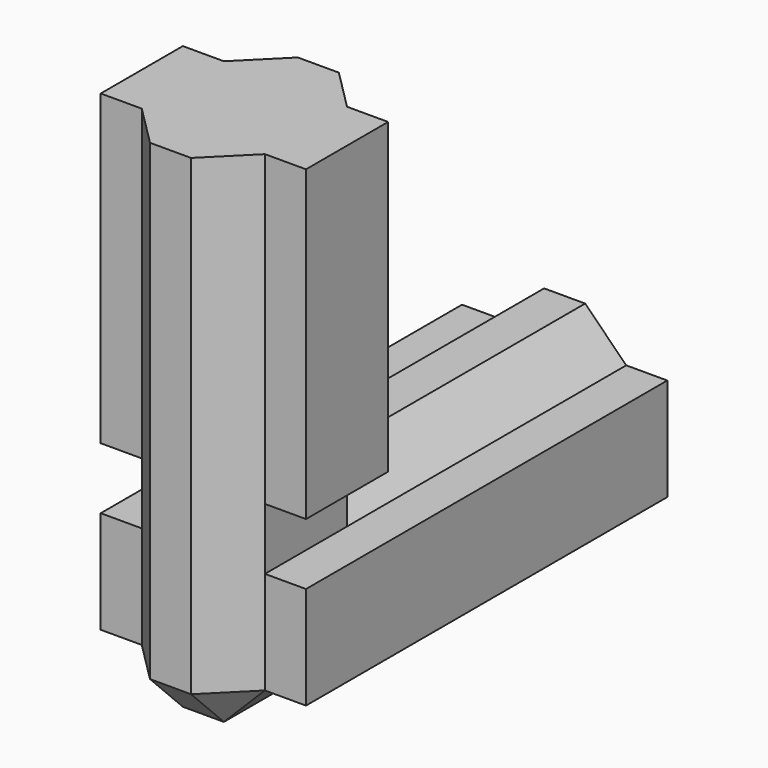
from build123d import *

# Parameters (mm, degrees)
BOX006001005_W     = 6
BOX006001005_H     = 9
BOX006001005_DEPTH = 25
CHAMFER003_SIZE    = 2
BOX006001004_W     = 6
BOX006001004_H     = 22
BOX006001004_DEPTH = 9
CHAMFER002_SIZE    = 2
BOX006001003_W     = 10
BOX006001003_H     = 5
BOX006001003_DEPTH = 15
BOX006001002_W     = 10
BOX006001002_H     = 22
BOX006001002_DEPTH = 5


with BuildPart() as chamfer003:
    # Box006001005 → Box006001005 (new body)
    with BuildSketch(Plane(origin=(2, -2, -2), x_dir=(1, 0, 0), z_dir=(0, 0, 1))):
        with Locations((3, 4.5)):
            Rectangle(BOX006001005_W, BOX006001005_H)
    extrude(amount=BOX006001005_DEPTH)

    # Chamfer003
    chamfer003_edges = [chamfer003.edges().sort_by_distance(p)[0] for p in [
        (2, -2, 10.5),
        (2, 7, 10.5),
        (2, 2.5, -2),
        (8, -2, 10.5),
        (8, 7, 10.5),
        (8, 2.5, -2),
        (5, -2, -2),
    ]]
    chamfer(chamfer003_edges, length=CHAMFER003_SIZE)


with BuildPart() as chamfer002:
    # Box006001004 → Box006001004 (new body)
    with BuildSketch(Plane(origin=(2, 0, -2), x_dir=(1, 0, 0), z_dir=(0, 0, 1))):
        with Locations((3, 11)):
            Rectangle(BOX006001004_W, BOX006001004_H)
    extrude(amount=BOX006001004_DEPTH)

    # Chamfer002
    chamfer002_edges = [chamfer002.edges().sort_by_distance(p)[0] for p in [
        (2, 11, 7),
        (2, 11, -2),
        (8, 11, 7),
        (8, 11, -2),
    ]]
    chamfer(chamfer002_edges, length=CHAMFER002_SIZE)


with BuildPart() as cube007:
    # Box006001003 → Box006001003 (new body)
    with BuildSketch(Plane.XY.offset(8)):
        with Locations((5, 2.5)):
            Rectangle(BOX006001003_W, BOX006001003_H)
    extrude(amount=BOX006001003_DEPTH)


with BuildPart() as fusion006002004:
    # Box006001002 → Box006001002 (new body)
    with BuildSketch(Plane.XY):
        with Locations((5, 11)):
            Rectangle(BOX006001002_W, BOX006001002_H)
    extrude(amount=BOX006001002_DEPTH)

    # Fusion006002004: union Chamfer003, Chamfer002, Cube007
    add(chamfer003.part)
    add(chamfer002.part)
    add(cube007.part)


with BuildPart() as fusion006002004_1:
    # Fusion006002004 placement: moved
    add(fusion006002004.part.moved(Location((-5, 0, 0))))


solid = fusion006002004_1.part
